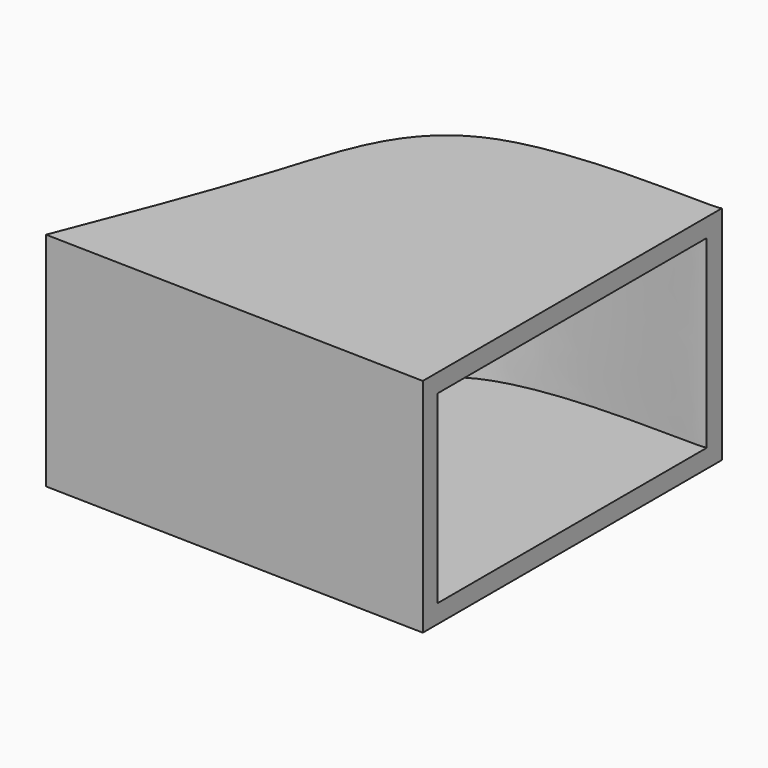
from build123d import *

# Parameters (mm, degrees)
F1_DEPTH = 30
F2_T     = -2.5


with BuildPart() as f1:
    # F0 (on Top) → F1 (new body)
    with BuildSketch(Plane.XY):
        with BuildLine():
            add(Edge.make_bspline(
                [(-52.9047064483, 10.7738440856), (-49.3151800836, 19.9011107355), (-42.4829823767, 37.2736785727), (-36.1918142658, 62.9987887901), (-1.5945333662, 59.435698275), (-0.9017228149, 60.1154789329)],
                knots=[0, 0, 0, 0, 0.323980896, 0.6166556002, 0.9387106654, 0.9387106654, 0.9387106654, 0.9387106654], degree=3))
            Line((-52.9047064483, 10.7738440856), (-0.9017228149, 9.5054339617))
            Line((-0.9017228149, 9.5054339617), (-0.9017228149, 60.1154789329))
        make_face()
        with BuildLine():
            add(Edge.make_bspline(
                [(-52.9047064483, 10.7738440856), (-49.3151800836, 19.9011107355), (-42.4829823767, 37.2736785727), (-36.1918142658, 62.9987887901), (-1.5945333662, 59.435698275), (-0.9017228149, 60.1154789329)],
                knots=[0, 0, 0, 0, 0.323980896, 0.6166556002, 0.9387106654, 0.9387106654, 0.9387106654, 0.9387106654], degree=3))
            Line((-52.9047064483, 10.7738440856), (-0.9017228149, 9.5054339617))
            Line((-0.9017228149, 9.5054339617), (-0.9017228149, 60.1154789329))
        make_face()
    extrude(amount=F1_DEPTH)

    # F2
    f2_openings = [f1.faces().sort_by_distance(p)[0] for p in [
        (-0.901723, 34.810456, 15),
    ]]
    offset(amount=F2_T, openings=f2_openings, kind=Kind.INTERSECTION)


solid = f1.part
